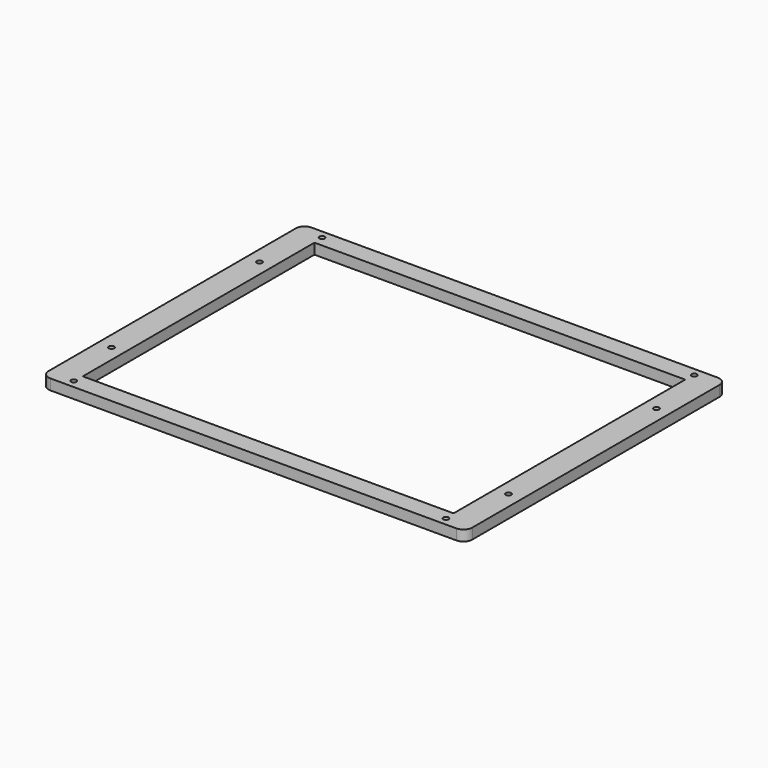
from build123d import *

# Parameters (mm, degrees)
F0_R     = 1.5
F0_W     = 210
F0_H     = 164
F1_DEPTH = 6


with BuildPart() as f1:
    # F0 (on Top) → F1 (new body)
    with BuildSketch(Plane.XY):
        with BuildLine():
            Line((-115, -92.5), (115, -92.5))
            ThreePointArc((115, -92.5), (118.535534, -91.035534), (120, -87.5))
            Line((120, -87.5), (120, 87.5))
            ThreePointArc((120, 87.5), (118.535534, 91.035534), (115, 92.5))
            Line((115, 92.5), (-115, 92.5))
            ThreePointArc((-115, 92.5), (-118.535534, 91.035534), (-120, 87.5))
            Line((-120, 87.5), (-120, -87.5))
            ThreePointArc((-120, -87.5), (-118.535534, -91.035534), (-115, -92.5))
        make_face()
        with Locations((-105.399, -87.9)):
            Circle(F0_R, mode=Mode.SUBTRACT)
        with Locations((-112.4, -52.4)):
            Circle(F0_R, mode=Mode.SUBTRACT)
        with Locations((105.399, -87.9)):
            Circle(F0_R, mode=Mode.SUBTRACT)
        with Locations((112.4, -52.4)):
            Circle(F0_R, mode=Mode.SUBTRACT)
        with Locations((-112.4, 52.4)):
            Circle(F0_R, mode=Mode.SUBTRACT)
        with Locations((-105.399, 87.9)):
            Circle(F0_R, mode=Mode.SUBTRACT)
        Rectangle(F0_W, F0_H, mode=Mode.SUBTRACT)
        with Locations((112.4, 52.4)):
            Circle(F0_R, mode=Mode.SUBTRACT)
        with Locations((105.399, 87.9)):
            Circle(F0_R, mode=Mode.SUBTRACT)
    extrude(amount=F1_DEPTH)


solid = f1.part
